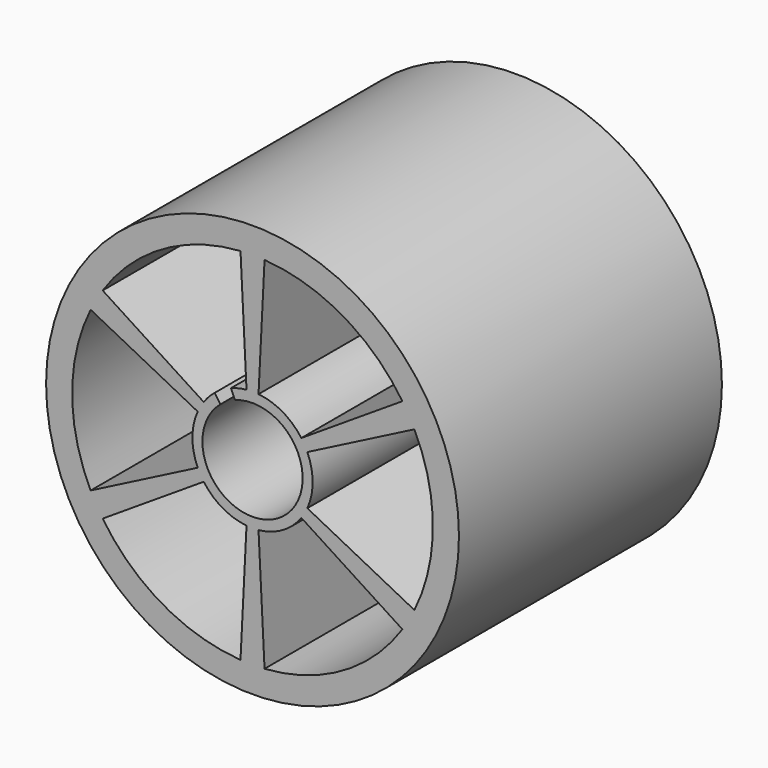
from build123d import *

# Parameters (mm, degrees)
F0_R     = 25.75
F1_DEPTH = 41


with BuildPart() as f1:
    # F0 (on Front) → F1 (new body)
    with BuildSketch(Plane.XZ):
        Circle(F0_R)
        with BuildLine():
            ThreePointArc((-1.5, -22.449944), (-11.250362, -19.485363), (-18.692687, -12.523316))
            Line((-18.692687, -12.523316), (-6.088184, -4.379957))
            ThreePointArc((-6.088184, -4.379957), (-3.75, -6.495191), (-0.749062, -7.4625))
            Line((-0.749062, -7.4625), (-1.5, -22.449944))
        make_face(mode=Mode.SUBTRACT)
        with BuildLine():
            ThreePointArc((18.692222, -12.52401), (11.249638, -19.48578), (1.499166, -22.45))
            Line((1.499166, -22.45), (0.749062, -7.4625))
            ThreePointArc((0.749062, -7.4625), (3.75, -6.495191), (6.088184, -4.379957))
            Line((6.088184, -4.379957), (18.692222, -12.52401))
        make_face(mode=Mode.SUBTRACT)
        with BuildLine():
            ThreePointArc((20.192222, 9.925934), (22.5, -0.000418), (20.191854, -9.926684))
            Line((20.191854, -9.926684), (6.837246, -3.082543))
            ThreePointArc((6.837246, -3.082543), (7.5, 0), (6.837246, 3.082543))
            Line((6.837246, 3.082543), (20.192222, 9.925934))
        make_face(mode=Mode.SUBTRACT)
        with BuildLine():
            ThreePointArc((-20.192222, -9.925934), (-22.5, 0.000418), (-20.191854, 9.926684))
            Line((-20.191854, 9.926684), (-6.837246, 3.082543))
            ThreePointArc((-6.837246, 3.082543), (-7.5, 0), (-6.837246, -3.082543))
            Line((-6.837246, -3.082543), (-20.192222, -9.925934))
        make_face(mode=Mode.SUBTRACT)
        with BuildLine():
            ThreePointArc((-2.186485, 5.855065), (3.143303, -5.40205), (-4.009937, 4.794049))
            Line((-4.009937, 4.794049), (-4.714155, 5.833245))
            ThreePointArc((-4.714155, 5.833245), (-5.44983, 5.152607), (-6.088184, 4.379957))
            Line((-6.088184, 4.379957), (-18.692222, 12.52401))
            ThreePointArc((-18.692222, 12.52401), (-11.249638, 19.48578), (-1.499166, 22.45))
            Line((-1.499166, 22.45), (-0.749062, 7.4625))
            ThreePointArc((-0.749062, 7.4625), (-1.737374, 7.295994), (-2.69466, 6.9992))
            Line((-2.69466, 6.9992), (-2.186485, 5.855065))
        make_face(mode=Mode.SUBTRACT)
        with BuildLine():
            Line((0.749062, 7.4625), (1.5, 22.449944))
            ThreePointArc((1.5, 22.449944), (11.250362, 19.485363), (18.692687, 12.523316))
            Line((18.692687, 12.523316), (6.088184, 4.379957))
            ThreePointArc((6.088184, 4.379957), (3.75, 6.495191), (0.749062, 7.4625))
        make_face(mode=Mode.SUBTRACT)
    extrude(amount=F1_DEPTH)


solid = f1.part
